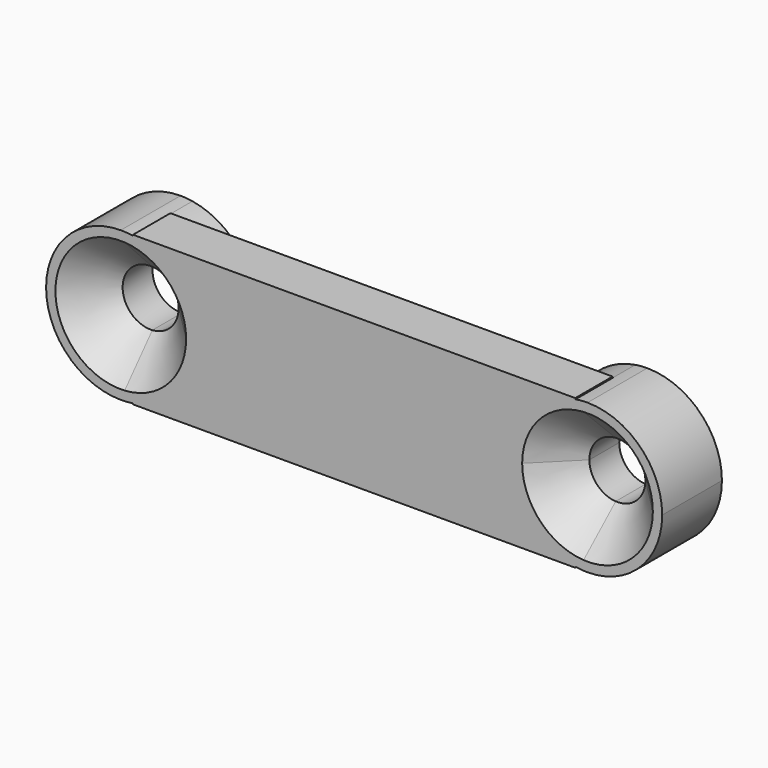
from build123d import *

# Parameters (mm, degrees)
F1_DEPTH = 4
F2_DEPTH = 1.5
F3_SIZE  = 2


with BuildPart() as f1:
    # F0 (on Front) → F1 (new body)
    with BuildSketch(Plane.XZ):
        with BuildLine():
            ThreePointArc((-12.41, 1.4972975656), (-12.1967325212, 2.7367345149), (-11.86, 3.9484680574))
            ThreePointArc((-11.86, 3.9484680574), (-12.1789643551, 3.9870962008), (-12.5, 4))
            ThreePointArc((-12.5, 4), (-16.5, 0), (-12.5, -4))
            ThreePointArc((-12.5, -4), (-12.1789643551, -3.9870962008), (-11.86, -3.9484680574))
            ThreePointArc((-11.86, -3.9484680574), (-12.1967325212, -2.7367345149), (-12.41, -1.4972975656))
            ThreePointArc((-12.41, -1.4972975656), (-14, 0), (-12.41, 1.4972975656))
        make_face()
        with BuildLine():
            Line((-11, 0), (-8.5, 0))
            ThreePointArc((-8.5, 0), (-9.4536907577, 2.5922962794), (-11.86, 3.9484680574))
            ThreePointArc((-11.86, 3.9484680574), (-12.1967325212, 2.7367345149), (-12.41, 1.4972975656))
            ThreePointArc((-12.41, 1.4972975656), (-11.4079835166, 1.0283481901), (-11, 0))
        make_face()
        with BuildLine():
            ThreePointArc((-11.86, -3.9484680574), (-9.4536907577, -2.5922962794), (-8.5, 0))
            Line((-8.5, 0), (-11, 0))
            ThreePointArc((-11, 0), (-11.4079835166, -1.0283481901), (-12.41, -1.4972975656))
            ThreePointArc((-12.41, -1.4972975656), (-12.1967325212, -2.7367345149), (-11.86, -3.9484680574))
        make_face()
        with BuildLine():
            ThreePointArc((11.8427192823, -4), (11.85138765, -3.9742434211), (11.86, -3.9484680574))
            ThreePointArc((11.86, -3.9484680574), (9.4536907577, -2.5922962794), (8.5, 0))
            Line((8.5, 0), (-8.5, 0))
            ThreePointArc((-8.5, 0), (-9.4536907577, -2.5922962794), (-11.86, -3.9484680574))
            ThreePointArc((-11.86, -3.9484680574), (-11.85138765, -3.9742434211), (-11.8427192823, -4))
            Line((-11.8427192823, -4), (11.8427192823, -4))
        make_face()
        with BuildLine():
            ThreePointArc((8.5, 0), (9.4536907577, 2.5922962794), (11.86, 3.9484680574))
            ThreePointArc((11.86, 3.9484680574), (11.85138765, 3.9742434211), (11.8427192823, 4))
            Line((11.8427192823, 4), (-11.8427192823, 4))
            ThreePointArc((-11.8427192823, 4), (-11.85138765, 3.9742434211), (-11.86, 3.9484680574))
            ThreePointArc((-11.86, 3.9484680574), (-9.4536907577, 2.5922962794), (-8.5, 0))
            Line((-8.5, 0), (8.5, 0))
        make_face()
        with BuildLine():
            ThreePointArc((11, 0), (11.4079835166, 1.0283481901), (12.41, 1.4972975656))
            ThreePointArc((12.41, 1.4972975656), (12.1967325212, 2.7367345149), (11.86, 3.9484680574))
            ThreePointArc((11.86, 3.9484680574), (9.4536907577, 2.5922962794), (8.5, 0))
            Line((8.5, 0), (11, 0))
        make_face()
        with BuildLine():
            ThreePointArc((11.86, -3.9484680574), (12.1967325212, -2.7367345149), (12.41, -1.4972975656))
            ThreePointArc((12.41, -1.4972975656), (11.4079835166, -1.0283481901), (11, 0))
            Line((11, 0), (8.5, 0))
            ThreePointArc((8.5, 0), (9.4536907577, -2.5922962794), (11.86, -3.9484680574))
        make_face()
        with BuildLine():
            ThreePointArc((11.86, 3.9484680574), (12.1967325212, 2.7367345149), (12.41, 1.4972975656))
            ThreePointArc((12.41, 1.4972975656), (13.5283481901, 1.0920164834), (14, 0))
            ThreePointArc((14, 0), (13.5283481901, -1.0920164834), (12.41, -1.4972975656))
            ThreePointArc((12.41, -1.4972975656), (12.1967325212, -2.7367345149), (11.86, -3.9484680574))
            ThreePointArc((11.86, -3.9484680574), (12.1789643551, -3.9870962008), (12.5, -4))
            ThreePointArc((12.5, -4), (15.3284271247, -2.8284271247), (16.5, 0))
            ThreePointArc((16.5, 0), (15.3284271247, 2.8284271247), (12.5, 4))
            ThreePointArc((12.5, 4), (12.1789643551, 3.9870962008), (11.86, 3.9484680574))
        make_face()
    extrude(amount=F1_DEPTH)

    # F0 (on Front) → F2 (cut)
    with BuildSketch(Plane.XZ):
        with BuildLine():
            ThreePointArc((11.8427192823, -4), (11.85138765, -3.9742434211), (11.86, -3.9484680574))
            ThreePointArc((11.86, -3.9484680574), (9.4536907577, -2.5922962794), (8.5, 0))
            Line((8.5, 0), (-8.5, 0))
            ThreePointArc((-8.5, 0), (-9.4536907577, -2.5922962794), (-11.86, -3.9484680574))
            ThreePointArc((-11.86, -3.9484680574), (-11.85138765, -3.9742434211), (-11.8427192823, -4))
            Line((-11.8427192823, -4), (11.8427192823, -4))
        make_face()
        with BuildLine():
            ThreePointArc((8.5, 0), (9.4536907577, 2.5922962794), (11.86, 3.9484680574))
            ThreePointArc((11.86, 3.9484680574), (11.85138765, 3.9742434211), (11.8427192823, 4))
            Line((11.8427192823, 4), (-11.8427192823, 4))
            ThreePointArc((-11.8427192823, 4), (-11.85138765, 3.9742434211), (-11.86, 3.9484680574))
            ThreePointArc((-11.86, 3.9484680574), (-9.4536907577, 2.5922962794), (-8.5, 0))
            Line((-8.5, 0), (8.5, 0))
        make_face()
    extrude(amount=F2_DEPTH, mode=Mode.SUBTRACT)

    # F3
    f3_edges = [f1.edges().sort_by_distance(p)[0] for p in [
        (-14, -4, 0),
        (12.59, -4, -1.497298),
    ]]
    chamfer(f3_edges, length=F3_SIZE)


solid = f1.part
